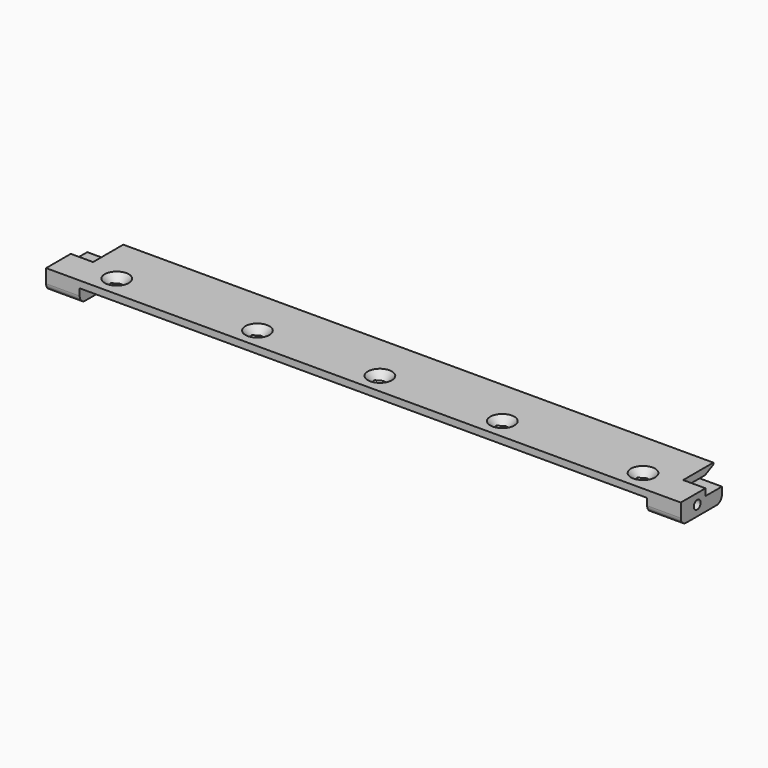
from build123d import *

# Parameters (mm, degrees)
F0_W            = 165.4
F0_H            = 15
F0_W_2          = 9.8
F1_DEPTH        = 6
F2_DEPTH        = 4
F4_D            = 2.5
F4_DEPTH        = 200
F5_R            = 2
F7_W            = 6.5
F7_H            = 6
F8_DEPTH        = 2
F9_W            = 172
F9_H            = 2
F10_DEPTH       = 5
F11_SIZE2       = 3
F11_SIZE        = 1.5
F13_D           = 3
F13_DEPTH       = 4
F13_CSINK_D     = 7
F13_CSINK_ANGLE = 90


with BuildPart() as f1:
    # F0 (on Top) → F1 (new body)
    with BuildSketch(Plane.XY):
        with Locations((-2.652436, -0.515384)):
            Rectangle(F0_W, F0_H)
        with Locations((-90.252436, -0.515384)):
            Rectangle(F0_W_2, F0_H)
        with Locations((84.947564, -0.515384)):
            Rectangle(F0_W_2, F0_H)
    extrude(amount=F1_DEPTH)

    # F0 (on Top) → F2 (cut)
    with BuildSketch(Plane.XY):
        with Locations((-2.652436, -0.515384)):
            Rectangle(F0_W, F0_H)
    extrude(amount=F2_DEPTH, mode=Mode.SUBTRACT)

    # F4
    with Locations(Plane(origin=(-95.152436, 0, 0), x_dir=(0, -1, 0), z_dir=(-1, 0, 0))):
        with Locations((2.015384, 3)):
            Hole(F4_D / 2, depth=F4_DEPTH)

    # F5
    f5_edges = [f1.edges().sort_by_distance(p)[0] for p in [
        (84.947564, 6.984616, 0),
        (-90.252436, 6.984616, 0),
        (-90.252436, -8.015384, 0),
        (84.947564, -8.015384, 0),
    ]]
    fillet(f5_edges, radius=F5_R)

    # F7 (on face) → F8 (cut)
    with BuildSketch(Plane.XY.offset(6)):
        with Locations((-91.902436, 3.984616)):
            Rectangle(F7_W, F7_H)
        with Locations((86.597564, 3.984616)):
            Rectangle(F7_W, F7_H)
    extrude(amount=-F8_DEPTH, mode=Mode.SUBTRACT)

    # F9 (on face) → F10 (join)
    with BuildSketch(Plane(origin=(0, 6.984616, 0), x_dir=(-1, 0, 0), z_dir=(0, 1, 0))):
        with Locations((2.652436, 5)):
            Rectangle(F9_W, F9_H)
    extrude(amount=F10_DEPTH)

    # F11
    f11_edges = [f1.edges().sort_by_distance(p)[0] for p in [
        (-2.652436, 11.984616, 4),
    ]]
    chamfer(f11_edges, length=F11_SIZE, length2=F11_SIZE2)

    # F13
    with Locations(Plane.XY.offset(6)):
        with Locations((-79.352436, -2.015384), (-38.352436, -2.015384), (-2.652436, -2.015384), (33.047564, -2.015384), (74.047564, -2.015384)):
            CounterSinkHole(F13_D / 2, F13_CSINK_D / 2, depth=F13_DEPTH, counter_sink_angle=F13_CSINK_ANGLE)


solid = f1.part
